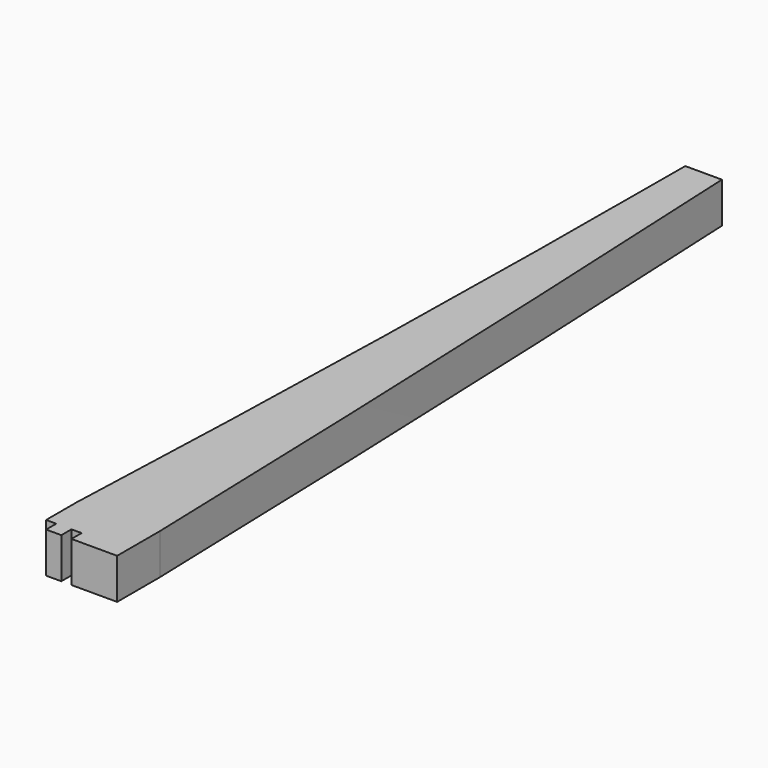
from build123d import *

# Parameters (mm, degrees)
PAD008_DEPTH = 8
SKETCH021_W  = 4.72
SKETCH021_H  = 153.5
PAD009_DEPTH = 5
PAD010_DEPTH = 8


with BuildPart() as part:
    # Sketch022 → Pad008 (new body)
    with BuildSketch(Plane.XY):
        with BuildLine():
            Line((-1, 0), (-1, 153))
            ThreePointArc((-1, 153), (-1.472972, 154.593853), (-2.36, 156))
            Line((-2.36, 156), (-2.86, 156))
            ThreePointArc((-6, 10), (-3.658792, 82.983414), (-2.86, 156))
            Line((-6, 10), (-6, 2.5))
            Line((-4, 2.5), (-6, 2.5))
            Line((-4, 0), (-4, 2.5))
            Line((-4, 0), (-1, 0))
        make_face()
    extrude(amount=PAD008_DEPTH)

    # Sketch021 → Pad009 (join)
    with BuildSketch(Plane.XY.offset(3)):
        with Locations((0, 79.25)):
            Rectangle(SKETCH021_W, SKETCH021_H)
    extrude(amount=PAD009_DEPTH)

    # Sketch023 → Pad010 (join)
    with BuildSketch(Plane.XY):
        with BuildLine():
            Line((1, 0), (10, 0))
            Line((10, 0), (10, 10.5))
            ThreePointArc((10, 10.5), (7.593861, 83.266042), (4.36, 156))
            Line((4.36, 156), (2.36, 156))
            ThreePointArc((2.36, 156), (1.472972, 154.593853), (1, 153))
            Line((1, 153), (1, 0))
        make_face()
    extrude(amount=PAD010_DEPTH)


solid = part.part
